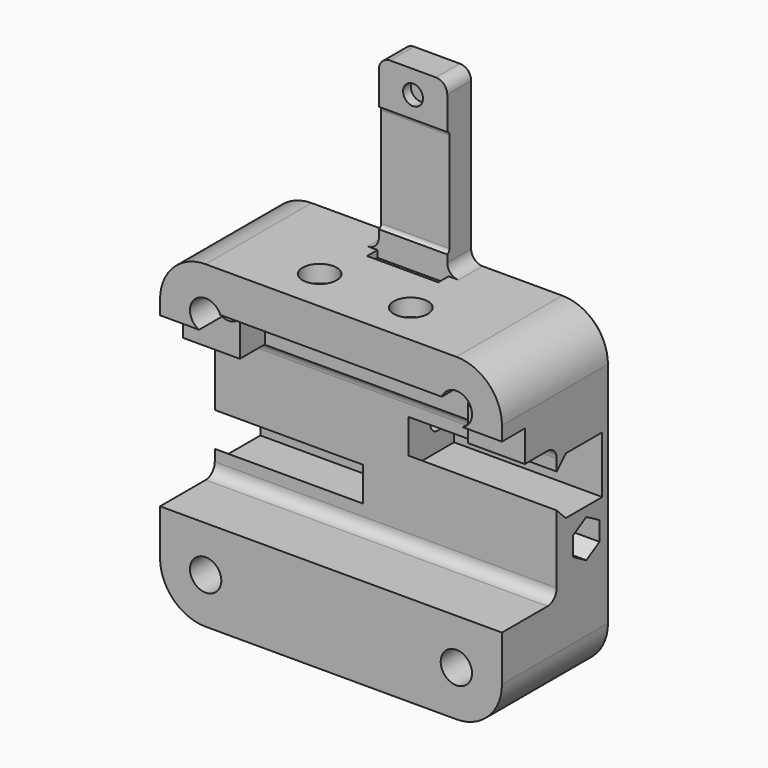
from build123d import *

# Parameters (mm, degrees)
PAD105_DEPTH          = 24
POCKET307_DEPTH       = 30.001
POCKET307_DEPTH_BACK  = 30.001
SKETCH492_R           = 2.75
POCKET338_DEPTH       = 20.701
SKETCH493_R           = 5
POCKET339_DEPTH       = 5
PAD110_DEPTH          = 6
POCKET343_DEPTH       = 6.25
SKETCH501_R           = 1.75
POCKET344_DEPTH       = 5
SKETCH502_R           = 3
POCKET345_DEPTH       = 5
CHAMFER027_SIZE       = 0.75
SKETCH515_W           = 10
SKETCH515_H           = 6.5
POCKET346_DEPTH       = 30.001
POCKET346_DEPTH_BACK  = 30.001
SKETCH516_W           = 21
SKETCH516_H           = 10
POCKET347_DEPTH       = 20
SKETCH517_W           = 44
SKETCH517_H           = 20
POCKET348_DEPTH       = 5
POCKET349_DEPTH       = 241.147462
SKETCH497_R           = 1.75
POCKET350_DEPTH       = 245.147462
POCKET350_DEPTH_BACK  = 245.147462
POCKET351_DEPTH       = 239.147462
POLARPATTERN007_COUNT = 2


with BuildPart() as part:
    # Sketch487 → Pad105 (new body)
    with BuildSketch(Plane.XZ):
        with BuildLine():
            Line((-30, 20), (-30, -20))
            ThreePointArc((-30, -20), (-27.656854, -25.656854), (-22, -28))
            Line((-22, -28), (22, -28))
            ThreePointArc((22, -28), (27.656854, -25.656854), (30, -20))
            Line((30, -20), (30, 20))
            ThreePointArc((30, 20), (27.656854, 25.656854), (22, 28))
            Line((22, 28), (-22, 28))
            ThreePointArc((-22, 28), (-27.656854, 25.656854), (-30, 20))
        make_face()
    extrude(amount=-PAD105_DEPTH)

    # Sketch488 → Pocket307 (cut, two sides)
    with BuildSketch(Plane.YZ) as pocket307_sk:
        with BuildLine():
            Line((-12, 10), (-12, -10))
            ThreePointArc((-12, -10), (-11.414214, -11.414214), (-10, -12))
            Line((-10, -12), (10, -12))
            ThreePointArc((10, -12), (11.414214, -11.414214), (12, -10))
            Line((12, -10), (12, 10))
            ThreePointArc((12, 10), (11.414214, 11.414214), (10, 12))
            Line((10, 12), (-10, 12))
            ThreePointArc((-10, 12), (-11.414214, 11.414214), (-12, 10))
        make_face()
    extrude(amount=-POCKET307_DEPTH, mode=Mode.SUBTRACT)
    extrude(pocket307_sk.sketch, amount=POCKET307_DEPTH_BACK, mode=Mode.SUBTRACT)

    # Sketch492 → Pocket338 (cut, through all)
    with BuildSketch(Plane.XZ.offset(-20.7)):
        with Locations((-22, 20)):
            Circle(SKETCH492_R)
        with Locations((22, 20)):
            Circle(SKETCH492_R)
        with Locations((-22, -20)):
            Circle(SKETCH492_R)
        with Locations((22, -20)):
            Circle(SKETCH492_R)
    extrude(amount=POCKET338_DEPTH, mode=Mode.SUBTRACT)

    # Sketch493 → Pocket339 (cut)
    with BuildSketch(Plane.XZ.offset(-21)):
        with Locations((-22, 20)):
            Circle(SKETCH493_R)
        with Locations((22, 20)):
            Circle(SKETCH493_R)
        with Locations((-22, -20)):
            Circle(SKETCH493_R)
        with Locations((22, -20)):
            Circle(SKETCH493_R)
    extrude(amount=-POCKET339_DEPTH, mode=Mode.SUBTRACT)

    # Sketch499 → Pad110 (join)
    with BuildSketch(Plane.XZ.offset(-24)):
        with BuildLine():
            ThreePointArc((6, 30), (6.585786, 28.585786), (8, 28))
            Line((-8, 28), (8, 28))
            ThreePointArc((-8, 28), (-6.585786, 28.585786), (-6, 30))
            Line((-6, 56), (-6, 30))
            ThreePointArc((-4, 58), (-5.414214, 57.414214), (-6, 56))
            Line((4, 58), (-4, 58))
            ThreePointArc((6, 56), (5.414214, 57.414214), (4, 58))
            Line((6, 30), (6, 56))
        make_face()
    extrude(amount=PAD110_DEPTH)

    # Sketch500 → Pocket343 (cut, symmetric)
    with BuildSketch(Plane.YZ):
        Polygon((18, 28), (18, 26.8), (16.917157, 26.8), (15.717157, 28), align=None)
        with BuildLine():
            ThreePointArc((18.5, 49.5), (17.75, 50.25), (17, 49.5))
            Line((17, 49.5), (17, 32))
            ThreePointArc((17, 32), (17.75, 31.25), (18.5, 32))
            Line((18.5, 32), (18.5, 49.5))
        make_face()
    extrude(amount=POCKET343_DEPTH, both=True, mode=Mode.SUBTRACT)

    # Sketch501 → Pocket344 (cut)
    with BuildSketch(Plane.XZ.offset(-19.7)):
        with Locations((0, 54)):
            Circle(SKETCH501_R)
    extrude(amount=POCKET344_DEPTH, mode=Mode.SUBTRACT)

    # Sketch502 → Pocket345 (cut)
    with BuildSketch(Plane.XZ.offset(-20)):
        with Locations((0, 54)):
            Circle(SKETCH502_R)
    extrude(amount=-POCKET345_DEPTH, mode=Mode.SUBTRACT)

    # Chamfer027
    chamfer027_edges = [part.edges().sort_by_distance(p)[0] for p in [
        (15, 24, 28),
        (17, 24, 20),
        (-27, 24, 20),
        (-27, 24, -20),
        (17, 24, -20),
    ]]
    chamfer(chamfer027_edges, length=CHAMFER027_SIZE)

    # Sketch515 → Pocket346 (cut, two sides)
    with BuildSketch(Plane.YZ) as pocket346_sk:
        with Locations((0, 14.25)):
            Rectangle(SKETCH515_W, SKETCH515_H)
    extrude(amount=-POCKET346_DEPTH, mode=Mode.SUBTRACT)
    extrude(pocket346_sk.sketch, amount=POCKET346_DEPTH_BACK, mode=Mode.SUBTRACT)

    # Sketch516 → Pocket347 (cut, symmetric)
    with BuildSketch(Plane.YZ):
        with Locations((0, 16)):
            Rectangle(SKETCH516_W, SKETCH516_H)
    extrude(amount=POCKET347_DEPTH, both=True, mode=Mode.SUBTRACT)

    # Sketch517 → Pocket348 (cut)
    with BuildSketch(Plane.XZ):
        with Locations((0, 10)):
            Rectangle(SKETCH517_W, SKETCH517_H)
    extrude(amount=-POCKET348_DEPTH, mode=Mode.SUBTRACT)

    # Sketch518 → Groove001 (revolve, cut)
    with BuildSketch(Plane(origin=(8, 7.5, 0), x_dir=(0, 1, 0), z_dir=(1, 0, 0))):
        Polygon((0, 40), (3, 40), (3, 25), (1.7, 25), (1.7, 21), (0, 21), align=None)
    groove001 = revolve(axis=Axis((8, 7.5, 0), (0, 0, 1)), mode=Mode.SUBTRACT)

    # Mirrored031: Groove001 across YZ
    add(groove001.mirror(Plane.YZ), mode=Mode.SUBTRACT)

    # Sketch496 → Pocket349 (cut, through all)
    with BuildSketch(Plane.YZ.offset(-4)):
        Polygon((14, 0), (22, 0), (22, -10), (14, -10), (12, -8), (12, -2), align=None)
    pocket349 = extrude(amount=-POCKET349_DEPTH, mode=Mode.SUBTRACT)

    # Sketch497 → Pocket350 (cut, two sides)
    with BuildSketch(Plane.YZ) as pocket350_sk:
        with Locations((18.5, -5)):
            Circle(SKETCH497_R)
    pocket350 = extrude(amount=-POCKET350_DEPTH, mode=Mode.SUBTRACT) + extrude(pocket350_sk.sketch, amount=POCKET350_DEPTH_BACK, mode=Mode.SUBTRACT)

    # Sketch498 → Pocket351 (cut, through all)
    with BuildSketch(Plane.YZ.offset(6)):
        Polygon((21.4, -6.674316), (21.4, -3.325684), (18.5, -1.651368), (15.6, -3.325684), (15.6, -6.674316), (18.5, -8.348632), align=None)
    pocket351 = extrude(amount=POCKET351_DEPTH, mode=Mode.SUBTRACT)

    # PolarPattern007: Pocket351, Pocket349, Pocket350 ×2 about axis
    polarpattern007_axis = Axis((0, 0, 0), (0, 1, 0))
    for i in range(1, POLARPATTERN007_COUNT):
        add(pocket351.rotate(polarpattern007_axis, i * 360 / POLARPATTERN007_COUNT), mode=Mode.SUBTRACT)
        add(pocket349.rotate(polarpattern007_axis, i * 360 / POLARPATTERN007_COUNT), mode=Mode.SUBTRACT)
        add(pocket350.rotate(polarpattern007_axis, i * 360 / POLARPATTERN007_COUNT), mode=Mode.SUBTRACT)


solid = part.part
